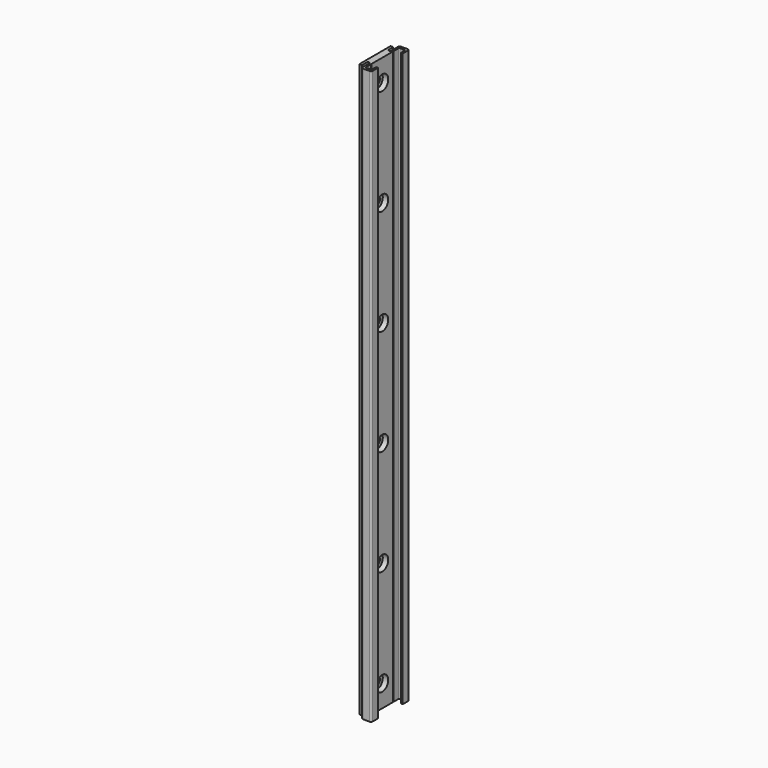
from build123d import *

# Parameters (mm, degrees)
SKETCH001_R   = 2.25
PAD001_DEPTH  = 1
SKETCH002_R   = 4.25
PAD002_DEPTH  = 3.1
ARRAY_Z_COUNT = 6
ARRAY_Z_PITCH = 60
PAD_DEPTH     = 325
FILLET_R      = 0.2
FILLET001_R   = 1
FILLET002_R   = 0.5


with BuildPart() as pad001:
    # Sketch001 → Pad001 (new body)
    with BuildSketch(Plane.YZ):
        with Locations((0, 12.5)):
            Circle(SKETCH001_R)
    extrude(amount=PAD001_DEPTH)


with BuildPart() as pad002:
    # Pad002 base: copy of Pad001
    add(pad001.part)

    # Sketch002 → Pad002 (new body)
    with BuildSketch(Plane.YZ.offset(1)):
        with Locations((0, 12.5)):
            Circle(SKETCH002_R)
    extrude(amount=PAD002_DEPTH)


with BuildPart() as array:
    # Fusion001 base: copy of Pad001
    add(pad001.part)

    # Fusion001: union Pad002
    add(pad002.part)

    # Array Z: Array ×6


with BuildPart() as array_1:
    add(array.part)
    with Locations(*[(0, 0, i * ARRAY_Z_PITCH) for i in range(1, ARRAY_Z_COUNT)]):
        add(array.part)


with BuildPart() as fillet002:
    # Sketch → Pad (new body)
    with BuildSketch(Plane.XY):
        with BuildLine():
            Line((0, 0), (0, 11))
            Line((0, 11), (1.5, 11))
            Line((1.5, 11), (1.5, 7.8))
            ThreePointArc((1.5, 7.8), (2.25, 7.05), (3, 7.8))
            Line((3, 7.8), (3, 13.5))
            Line((3, 13.5), (8.7, 13.5))
            Line((8.7, 13.5), (8.7, 8.75))
            Line((8.7, 8.75), (7.6, 8.75))
            Line((7.6, 8.75), (7.6, 12))
            Line((7.6, 12), (4.1, 12))
            Line((4.1, 12), (4.1, 7.95))
            ThreePointArc((4.1, 7.95), (3.9, 7.75), (4.1, 7.55))
            Line((4.1, 7.55), (4.1, 0))
            Line((4.1, 0), (0, 0))
        make_face()
    extrude(amount=PAD_DEPTH)

    # Fillet
    fillet_edges = [fillet002.edges().sort_by_distance(p)[0] for p in [
        (1.5, 11, 162.5),
    ]]
    fillet(fillet_edges, radius=FILLET_R)

    # Fillet001
    fillet001_edges = [fillet002.edges().sort_by_distance(p)[0] for p in [
        (3, 13.5, 162.5),
        (8.7, 13.5, 162.5),
    ]]
    fillet(fillet001_edges, radius=FILLET001_R)

    # Fillet002
    fillet002_edges = [fillet002.edges().sort_by_distance(p)[0] for p in [
        (4.1, 12, 162.5),
        (7.6, 12, 162.5),
    ]]
    fillet(fillet002_edges, radius=FILLET002_R)


with BuildPart() as part_mirroring:
    # Part__Mirroring: instance of Fillet002
    add(fillet002.part.mirror(Plane(origin=(0, 0, 0), x_dir=(1, 0, 0), z_dir=(0, 1, 0))))


with BuildPart() as cut:
    # Fusion base: copy of Fillet002
    add(fillet002.part)

    # Fusion: union Part__Mirroring
    add(part_mirroring.part)

    # Cut: cut Array
    add(array_1.part, mode=Mode.SUBTRACT)


solid = cut.part
